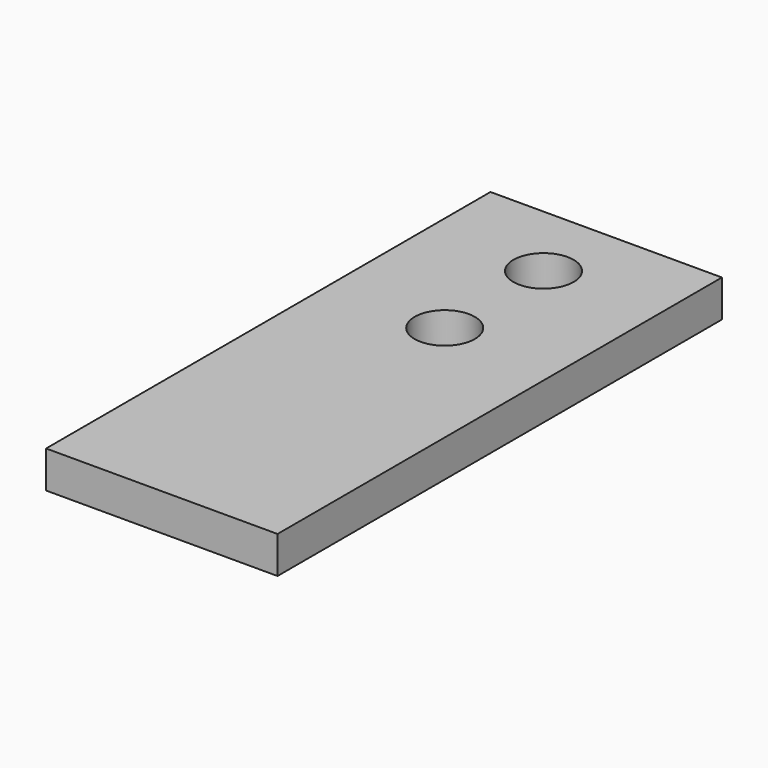
from build123d import *

# Parameters (mm, degrees)
SKETCH_W     = 25
SKETCH_H     = 60
PAD_DEPTH    = 4
SKETCH001_R  = 3.25
POCKET_DEPTH = 5


with BuildPart() as part:
    # Sketch → Pad (new body)
    with BuildSketch(Plane.XY):
        Rectangle(SKETCH_W, SKETCH_H)
    extrude(amount=PAD_DEPTH)

    # Sketch001 (on Face6 of Pad) → Pocket (cut)
    with BuildSketch(Plane.XY.offset(4)):
        with Locations((0, 21.537292)):
            Circle(SKETCH001_R)
        with Locations((0, 8.199236)):
            Circle(SKETCH001_R)
    extrude(amount=-POCKET_DEPTH, mode=Mode.SUBTRACT)


solid = part.part
